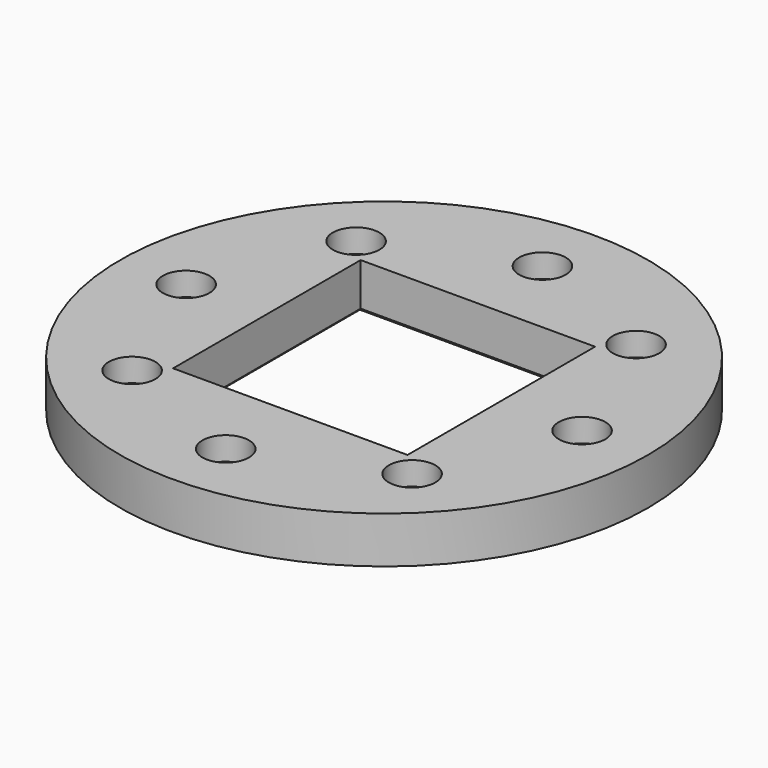
from build123d import *

# Parameters (mm, degrees)
BOX743_W                     = 30.2
BOX743_H                     = 30.2
BOX743_DEPTH                 = 25
CYLINDER1930_R               = 1.5
CYLINDER1930_DEPTH           = 20
CYLINDER1930_PLACEMENT_ANGLE = 45
CYLINDER1927_R               = 1.5
CYLINDER1927_DEPTH           = 20
CYLINDER1933_R               = 1.5
CYLINDER1933_DEPTH           = 20
CYLINDER1933_PLACEMENT_ANGLE = 135
CYLINDER1929_R               = 1.5
CYLINDER1929_DEPTH           = 20
CYLINDER1935_R               = 1.5
CYLINDER1935_DEPTH           = 20
CYLINDER1935_PLACEMENT_ANGLE = 225
CYLINDER1928_R               = 1.5
CYLINDER1928_DEPTH           = 20
CYLINDER1943_R               = 1.5
CYLINDER1943_DEPTH           = 20
CYLINDER1943_PLACEMENT_ANGLE = 45
CYLINDER1937_R               = 1.5
CYLINDER1937_DEPTH           = 20
CYLINDER1940_R               = 3
CYLINDER1940_DEPTH           = 3
CYLINDER1940_PLACEMENT_ANGLE = 45
CYLINDER1942_R               = 3
CYLINDER1942_DEPTH           = 3
CYLINDER1941_R               = 3
CYLINDER1941_DEPTH           = 3
CYLINDER1941_PLACEMENT_ANGLE = 135
CYLINDER1939_R               = 3
CYLINDER1939_DEPTH           = 3
CYLINDER1932_R               = 3
CYLINDER1932_DEPTH           = 3
CYLINDER1932_PLACEMENT_ANGLE = 225
CYLINDER1938_R               = 3
CYLINDER1938_DEPTH           = 3
CYLINDER1931_R               = 3
CYLINDER1931_DEPTH           = 3
CYLINDER1931_PLACEMENT_ANGLE = 45
CYLINDER1934_R               = 3
CYLINDER1934_DEPTH           = 3
CYLINDER1936_R               = 34
CYLINDER1936_DEPTH           = 6
CHAMFER078_SIZE              = 0.5


with BuildPart() as krychle743:
    # Box743 → Box743 (new body)
    with BuildSketch(Plane(origin=(-15.1, -15.1, 0), x_dir=(1, 0, 0), z_dir=(0, 0, 1))):
        with Locations((15.1, 15.1)):
            Rectangle(BOX743_W, BOX743_H)
    extrude(amount=BOX743_DEPTH)


with BuildPart() as obj1:
    # Cylinder1930 → Cylinder1930 (new body)
    with BuildSketch(Plane.XY):
        Circle(CYLINDER1930_R)
    extrude(amount=CYLINDER1930_DEPTH)


with BuildPart() as obj1_1:
    # Cylinder1930 placement: moved
    add(obj1.part.moved(Location((-18.031223, 18.031223, -4))).rotate(Axis((-18.031223, 18.031223, -4), (0, 0, 1)), CYLINDER1930_PLACEMENT_ANGLE))


with BuildPart() as obj2:
    # Cylinder1927 → Cylinder1927 (new body)
    with BuildSketch(Plane(origin=(-25.5, 0, -4), x_dir=(0, 1, 0), z_dir=(0, 0, 1))):
        Circle(CYLINDER1927_R)
    extrude(amount=CYLINDER1927_DEPTH)


with BuildPart() as obj3:
    # Cylinder1933 → Cylinder1933 (new body)
    with BuildSketch(Plane.XY):
        Circle(CYLINDER1933_R)
    extrude(amount=CYLINDER1933_DEPTH)


with BuildPart() as obj3_1:
    # Cylinder1933 placement: moved
    add(obj3.part.moved(Location((-18.031223, -18.031223, -4))).rotate(Axis((-18.031223, -18.031223, -4), (0, 0, 1)), CYLINDER1933_PLACEMENT_ANGLE))


with BuildPart() as obj4:
    # Cylinder1929 → Cylinder1929 (new body)
    with BuildSketch(Plane(origin=(0, -25.5, -4), x_dir=(-1, 0, 0), z_dir=(0, 0, 1))):
        Circle(CYLINDER1929_R)
    extrude(amount=CYLINDER1929_DEPTH)


with BuildPart() as obj5:
    # Cylinder1935 → Cylinder1935 (new body)
    with BuildSketch(Plane.XY):
        Circle(CYLINDER1935_R)
    extrude(amount=CYLINDER1935_DEPTH)


with BuildPart() as obj5_1:
    # Cylinder1935 placement: moved
    add(obj5.part.moved(Location((18.031223, -18.031223, -4))).rotate(Axis((18.031223, -18.031223, -4), (0, 0, 1)), CYLINDER1935_PLACEMENT_ANGLE))


with BuildPart() as obj6:
    # Cylinder1928 → Cylinder1928 (new body)
    with BuildSketch(Plane(origin=(25.5, 0, -4), x_dir=(0, -1, 0), z_dir=(0, 0, 1))):
        Circle(CYLINDER1928_R)
    extrude(amount=CYLINDER1928_DEPTH)


with BuildPart() as obj7:
    # Cylinder1943 → Cylinder1943 (new body)
    with BuildSketch(Plane.XY):
        Circle(CYLINDER1943_R)
    extrude(amount=CYLINDER1943_DEPTH)


with BuildPart() as obj7_1:
    # Cylinder1943 placement: moved
    add(obj7.part.moved(Location((18.031223, 18.031223, -4))).rotate(Axis((18.031223, 18.031223, -4), (0, 0, -1)), CYLINDER1943_PLACEMENT_ANGLE))


with BuildPart() as compound919:
    # Cylinder1937 → Cylinder1937 (new body)
    with BuildSketch(Plane(origin=(0, 25.5, -4), x_dir=(1, 0, 0), z_dir=(0, 0, 1))):
        Circle(CYLINDER1937_R)
    extrude(amount=CYLINDER1937_DEPTH)

    # Compound919: union obj1, obj2, obj3, obj4, obj5, obj6, obj7
    add(obj1_1.part)
    add(obj2.part)
    add(obj3_1.part)
    add(obj4.part)
    add(obj5_1.part)
    add(obj6.part)
    add(obj7_1.part)


with BuildPart() as obj8:
    # Cylinder1940 → Cylinder1940 (new body)
    with BuildSketch(Plane.XY):
        Circle(CYLINDER1940_R)
    extrude(amount=CYLINDER1940_DEPTH)


with BuildPart() as obj8_1:
    # Cylinder1940 placement: moved
    add(obj8.part.moved(Location((-18.031223, 18.031223, 3))).rotate(Axis((-18.031223, 18.031223, 3), (0, 0, 1)), CYLINDER1940_PLACEMENT_ANGLE))


with BuildPart() as obj9:
    # Cylinder1942 → Cylinder1942 (new body)
    with BuildSketch(Plane(origin=(-25.5, 0, 3), x_dir=(0, 1, 0), z_dir=(0, 0, 1))):
        Circle(CYLINDER1942_R)
    extrude(amount=CYLINDER1942_DEPTH)


with BuildPart() as obj10:
    # Cylinder1941 → Cylinder1941 (new body)
    with BuildSketch(Plane.XY):
        Circle(CYLINDER1941_R)
    extrude(amount=CYLINDER1941_DEPTH)


with BuildPart() as obj10_1:
    # Cylinder1941 placement: moved
    add(obj10.part.moved(Location((-18.031223, -18.031223, 3))).rotate(Axis((-18.031223, -18.031223, 3), (0, 0, 1)), CYLINDER1941_PLACEMENT_ANGLE))


with BuildPart() as obj11:
    # Cylinder1939 → Cylinder1939 (new body)
    with BuildSketch(Plane(origin=(0, -25.5, 3), x_dir=(-1, 0, 0), z_dir=(0, 0, 1))):
        Circle(CYLINDER1939_R)
    extrude(amount=CYLINDER1939_DEPTH)


with BuildPart() as obj12:
    # Cylinder1932 → Cylinder1932 (new body)
    with BuildSketch(Plane.XY):
        Circle(CYLINDER1932_R)
    extrude(amount=CYLINDER1932_DEPTH)


with BuildPart() as obj12_1:
    # Cylinder1932 placement: moved
    add(obj12.part.moved(Location((18.031223, -18.031223, 3))).rotate(Axis((18.031223, -18.031223, 3), (0, 0, 1)), CYLINDER1932_PLACEMENT_ANGLE))


with BuildPart() as obj13:
    # Cylinder1938 → Cylinder1938 (new body)
    with BuildSketch(Plane(origin=(25.5, 0, 3), x_dir=(0, -1, 0), z_dir=(0, 0, 1))):
        Circle(CYLINDER1938_R)
    extrude(amount=CYLINDER1938_DEPTH)


with BuildPart() as obj14:
    # Cylinder1931 → Cylinder1931 (new body)
    with BuildSketch(Plane.XY):
        Circle(CYLINDER1931_R)
    extrude(amount=CYLINDER1931_DEPTH)


with BuildPart() as obj14_1:
    # Cylinder1931 placement: moved
    add(obj14.part.moved(Location((18.031223, 18.031223, 3))).rotate(Axis((18.031223, 18.031223, 3), (0, 0, -1)), CYLINDER1931_PLACEMENT_ANGLE))


with BuildPart() as compound918:
    # Cylinder1934 → Cylinder1934 (new body)
    with BuildSketch(Plane(origin=(0, 25.5, 3), x_dir=(1, 0, 0), z_dir=(0, 0, 1))):
        Circle(CYLINDER1934_R)
    extrude(amount=CYLINDER1934_DEPTH)

    # Compound918: union obj8, obj9, obj10, obj11, obj12, obj13, obj14
    add(obj8_1.part)
    add(obj9.part)
    add(obj10_1.part)
    add(obj11.part)
    add(obj12_1.part)
    add(obj13.part)
    add(obj14_1.part)


with BuildPart() as chamfer078:
    # Cylinder1936 → Cylinder1936 (new body)
    with BuildSketch(Plane.XY):
        Circle(CYLINDER1936_R)
    extrude(amount=CYLINDER1936_DEPTH)

    # Cut565: cut Compound918
    add(compound918.part, mode=Mode.SUBTRACT)

    # Cut566: cut Compound919
    add(compound919.part, mode=Mode.SUBTRACT)

    # Cut568: cut Krychle743
    add(krychle743.part, mode=Mode.SUBTRACT)

    # Chamfer078
    chamfer078_edges = [chamfer078.edges().sort_by_distance(p)[0] for p in [
        (-15.1, 0, 0),
        (0, -15.1, 0),
        (15.1, 0, 0),
        (0, 15.1, 0),
    ]]
    chamfer(chamfer078_edges, length=CHAMFER078_SIZE)


solid = chamfer078.part
